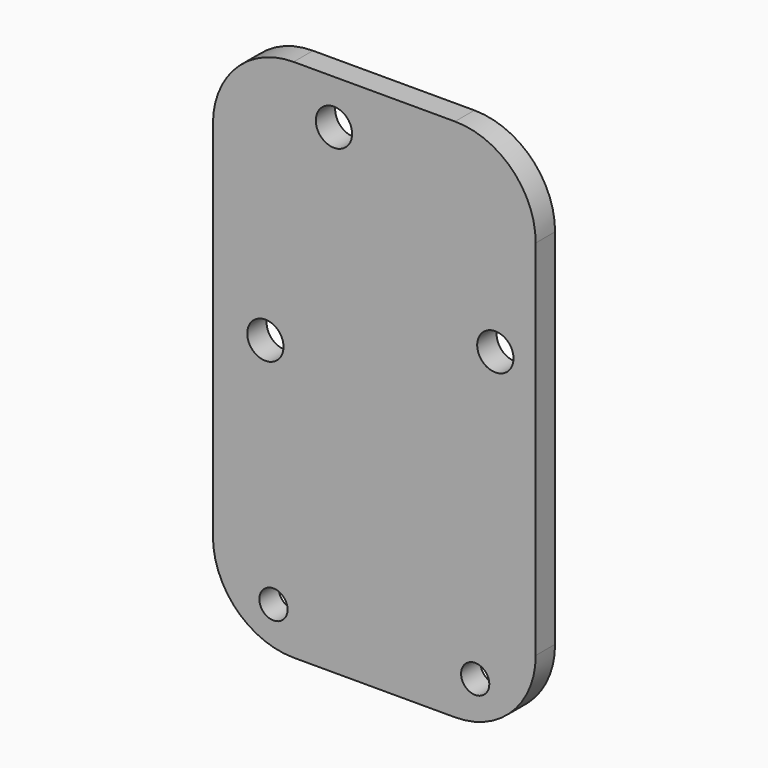
from build123d import *

# Parameters (mm, degrees)
F0_W     = 80
F0_H     = 130
F0_R     = 3.5
F0_R_2   = 4.5
F1_DEPTH = 6
F2_R     = 20


with BuildPart() as f1:
    # F0 (on Front) → F1 (new body)
    with BuildSketch(Plane.XZ):
        with Locations((5.364077, 0)):
            Rectangle(F0_W, F0_H)
        with Locations((-19.635923, -55)):
            Circle(F0_R, mode=Mode.SUBTRACT)
        with Locations((30.364077, -55)):
            Circle(F0_R, mode=Mode.SUBTRACT)
        with Locations((-21.635923, 2)):
            Circle(F0_R_2, mode=Mode.SUBTRACT)
        with Locations((-4.635923, 54)):
            Circle(F0_R_2, mode=Mode.SUBTRACT)
        with Locations((35.364077, 18)):
            Circle(F0_R_2, mode=Mode.SUBTRACT)
    extrude(amount=F1_DEPTH)

    # F2
    f2_edges = [f1.edges().sort_by_distance(p)[0] for p in [
        (45.364077, -3, 65),
        (-34.635923, -3, 65),
        (-34.635923, -3, -65),
        (45.364077, -3, -65),
    ]]
    fillet(f2_edges, radius=F2_R)


solid = f1.part
